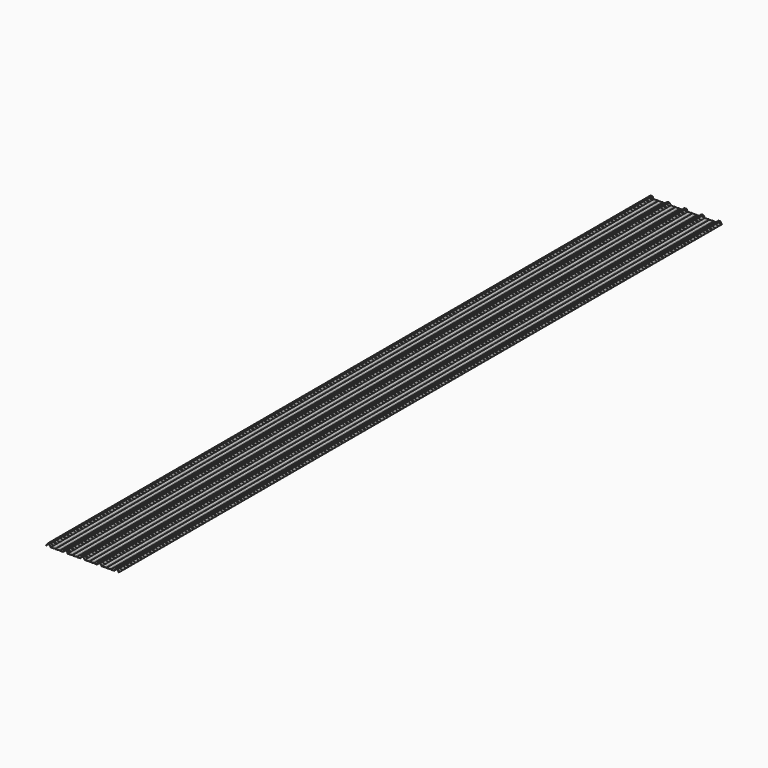
from build123d import *

# Parameters (mm, degrees)
F2_DEPTH = 11800


with BuildPart() as f2:
    # F1 (on Front) → F2 (new body)
    with BuildSketch(Plane.XZ):
        Polygon((-36.69171, 4.4), (-33.227608, 4.4), (-26.81902, 15.5), (-24.948929, 15.5), (-14.267949, 34), (14.267949, 34), (24.948929, 15.5), (26.81902, 15.5), (35.767949, 0), (85.166667, 0), (86.898717, 3), (107.434616, 3), (109.166667, 0), (156.833333, 0), (158.565384, 3), (179.101283, 3), (180.833333, 0), (230.232051, 0), (239.18098, 15.5), (241.051071, 15.5), (251.732051, 34), (280.267949, 34), (290.948929, 15.5), (292.81902, 15.5), (301.767949, 0), (351.166667, 0), (352.898717, 3), (373.434616, 3), (375.166667, 0), (422.833333, 0), (424.565384, 3), (445.101283, 3), (446.833333, 0), (496.232051, 0), (505.18098, 15.5), (507.051071, 15.5), (517.732051, 34), (546.267949, 34), (556.948929, 15.5), (558.81902, 15.5), (567.767949, 0), (617.166667, 0), (618.898717, 3), (639.434616, 3), (641.166667, 0), (688.833333, 0), (690.565384, 3), (711.101283, 3), (712.833333, 0), (762.232051, 0), (771.18098, 15.5), (773.051071, 15.5), (783.732051, 34), (812.267949, 34), (822.948929, 15.5), (824.81902, 15.5), (833.767949, 0), (883.166667, 0), (884.898717, 3), (905.434616, 3), (907.166667, 0), (954.833333, 0), (956.565384, 3), (977.101283, 3), (978.833333, 0), (1028.232051, 0), (1037.18098, 15.5), (1039.051071, 15.5), (1049.732051, 34), (1078.267949, 34), (1088.948929, 15.5), (1090.81902, 15.5), (1099.767949, 0), (1101.5, 3), (1092.551071, 18.5), (1090.68098, 18.5), (1080, 37), (1048, 37), (1037.31902, 18.5), (1035.448929, 18.5), (1026.5, 3), (980.565384, 3), (978.833333, 6), (954.833333, 6), (953.101283, 3), (908.898717, 3), (907.166667, 6), (883.166667, 6), (881.434616, 3), (835.5, 3), (826.551071, 18.5), (824.68098, 18.5), (814, 37), (782, 37), (771.31902, 18.5), (769.448929, 18.5), (760.5, 3), (714.565384, 3), (712.833333, 6), (688.833333, 6), (687.101283, 3), (642.898717, 3), (641.166667, 6), (617.166667, 6), (615.434616, 3), (569.5, 3), (560.551071, 18.5), (558.68098, 18.5), (548, 37), (516, 37), (505.31902, 18.5), (503.448929, 18.5), (494.5, 3), (448.565384, 3), (446.833333, 6), (422.833333, 6), (421.101283, 3), (376.898717, 3), (375.166667, 6), (351.166667, 6), (349.434616, 3), (303.5, 3), (294.551071, 18.5), (292.68098, 18.5), (282, 37), (250, 37), (239.31902, 18.5), (237.448929, 18.5), (228.5, 3), (182.565384, 3), (180.833333, 6), (156.833333, 6), (155.101283, 3), (110.898717, 3), (109.166667, 6), (85.166667, 6), (83.434616, 3), (37.5, 3), (28.551071, 18.5), (26.68098, 18.5), (16, 37), (-16, 37), (-26.68098, 18.5), (-28.551071, 18.5), align=None)
    extrude(amount=F2_DEPTH)


solid = f2.part
